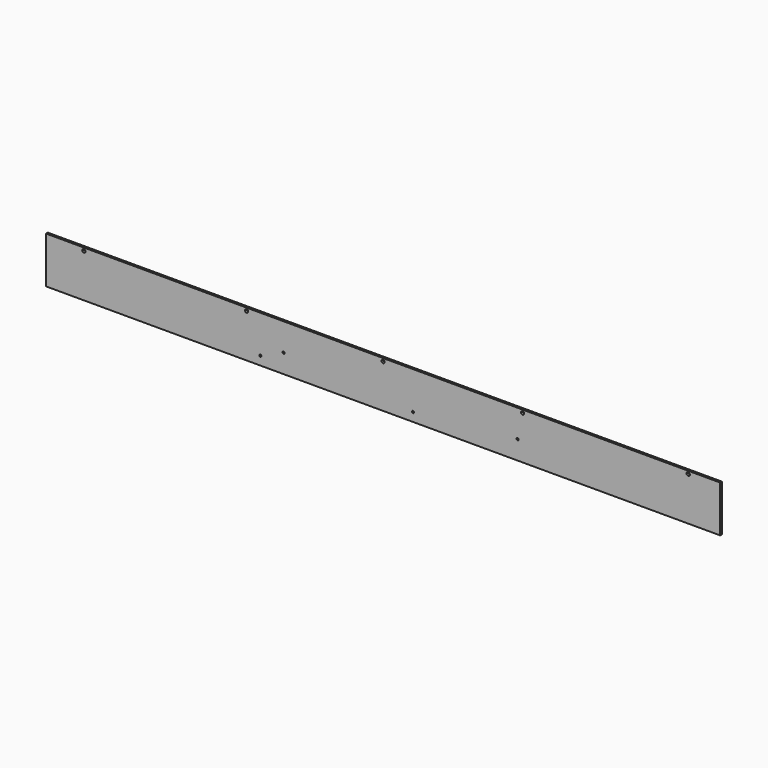
from build123d import *

# Parameters (mm, degrees)
F0_W     = 1473.2
F0_H     = 101.6
F1_DEPTH = 4.7625
F2_R     = 3.57124
F3_DEPTH = 4.7635
F4_R     = 2.38125
F5_DEPTH = 4.7635
F6_R     = 2.38125
F7_DEPTH = 4.7635


with BuildPart() as f1:
    # F0 (on Front) → F1 (new body)
    with BuildSketch(Plane.XZ):
        with Locations((736.6, 50.8)):
            Rectangle(F0_W, F0_H)
    extrude(amount=-F1_DEPTH)

    # F2 (on face) → F3 (cut, through all)
    with BuildSketch(Plane.XZ):
        with Locations((82.55, 95.25)):
            Circle(F2_R)
        with Locations((438.15, 95.25)):
            Circle(F2_R)
        with Locations((736.6, 95.25)):
            Circle(F2_R)
        with Locations((1041.4, 95.25)):
            Circle(F2_R)
        with Locations((1403.35, 95.25)):
            Circle(F2_R)
    extrude(amount=-F3_DEPTH, mode=Mode.SUBTRACT)

    # F4 (on face) → F5 (cut, through all)
    with BuildSketch(Plane.XZ):
        with Locations((519.1125, 41.275)):
            Circle(F4_R)
        with Locations((1030.2875, 41.275)):
            Circle(F4_R)
    extrude(amount=-F5_DEPTH, mode=Mode.SUBTRACT)

    # F6 (on face) → F7 (cut, through all)
    with BuildSketch(Plane.XZ):
        with Locations((468.3125, 19.05)):
            Circle(F6_R)
        with Locations((801.6875, 19.05)):
            Circle(F6_R)
    extrude(amount=-F7_DEPTH, mode=Mode.SUBTRACT)


solid = f1.part
